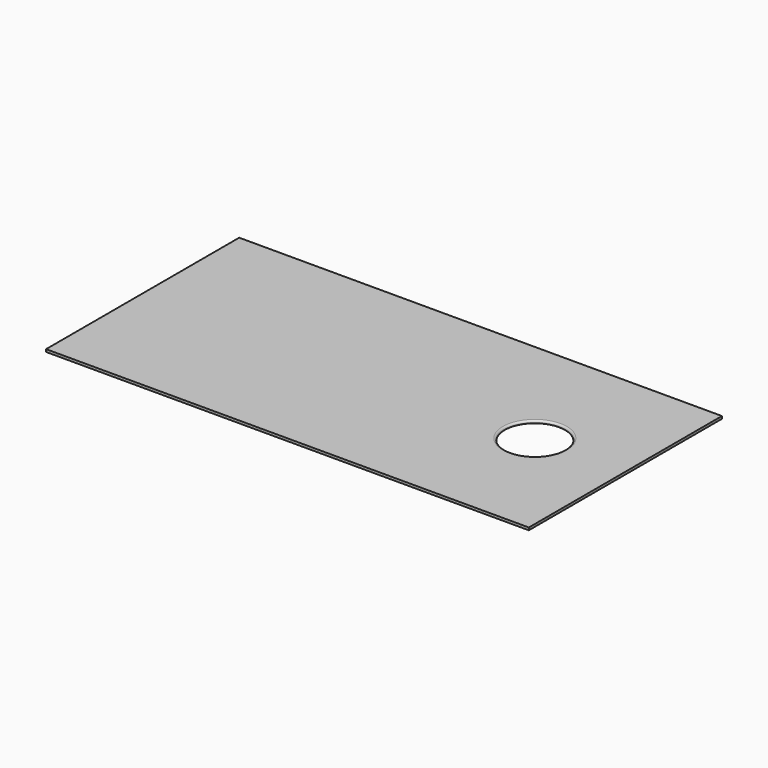
from build123d import *

# Parameters (mm, degrees)
F0_W     = 1219.2
F0_H     = 609.6
F0_R     = 76.2
F1_DEPTH = 3.175
F2_R     = 4.699


with BuildPart() as f1:
    # F0 (on Top) → F1 (new body, symmetric)
    with BuildSketch(Plane.XY):
        Rectangle(F0_W, F0_H)
        with Locations((381, 0)):
            Circle(F0_R, mode=Mode.SUBTRACT)
    extrude(amount=F1_DEPTH, both=True)

    # F2
    f2_edges = [f1.edges().sort_by_distance(p)[0] for p in [
        (304.8, 0, 3.175),
    ]]
    fillet(f2_edges, radius=F2_R)


solid = f1.part
